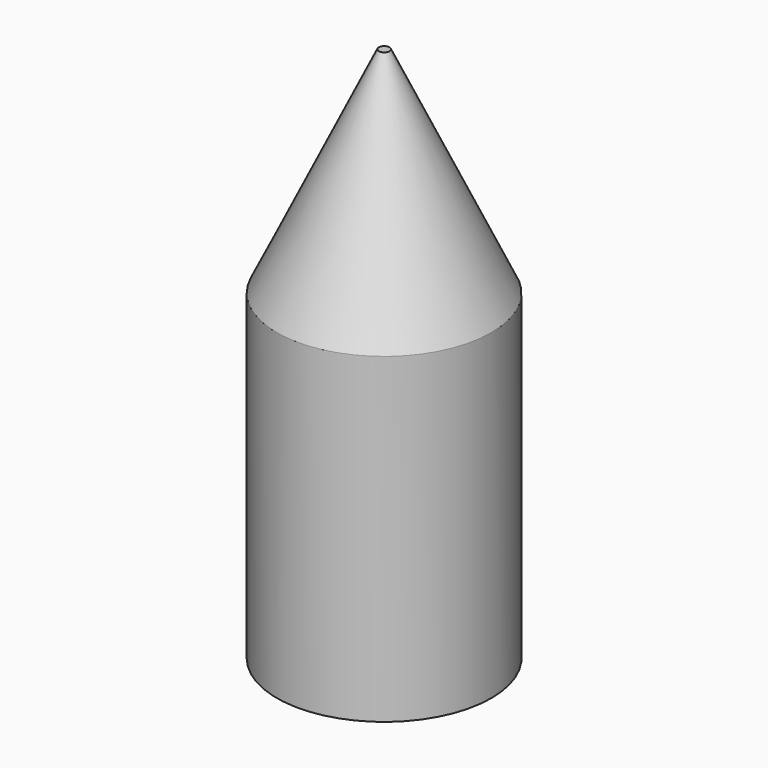
from build123d import *

# Parameters (mm, degrees)
CYLINDER_R     = 2
CYLINDER_DEPTH = 10
CHAMFER_SIZE2  = 1.9
CHAMFER_SIZE   = 4


with BuildPart() as part:
    # Cylinder → Cylinder (new body)
    with BuildSketch(Plane.XY):
        Circle(CYLINDER_R)
    extrude(amount=CYLINDER_DEPTH)

    # Chamfer
    chamfer_edges = [part.edges().sort_by_distance(p)[0] for p in [
        (-2, 0, 10),
    ]]
    chamfer_side = part.faces().sort_by_distance((-2, 0, 5))[0]
    chamfer(chamfer_edges, length=CHAMFER_SIZE, length2=CHAMFER_SIZE2, reference=chamfer_side)


solid = part.part
